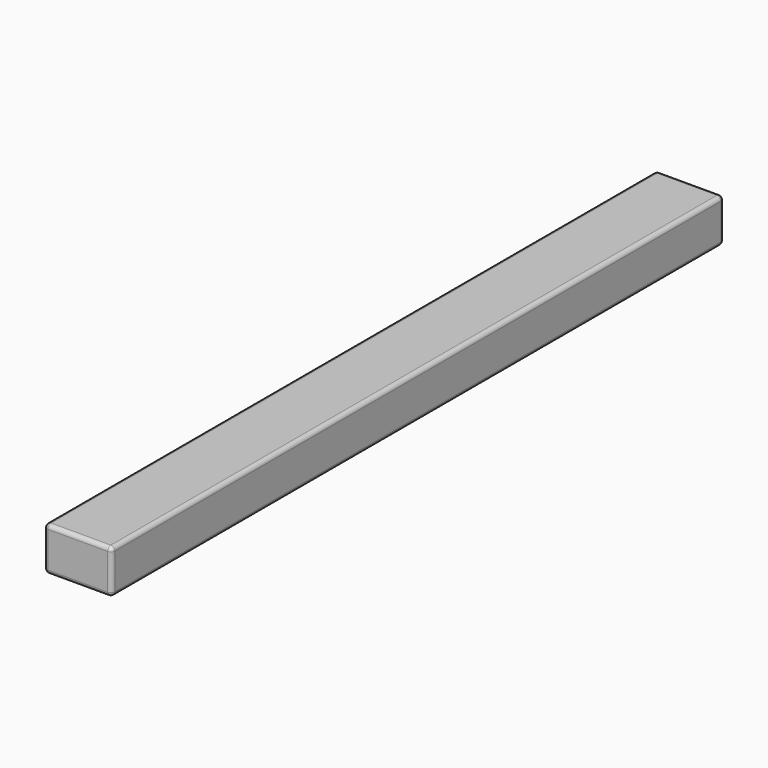
from build123d import *

# Parameters (mm, degrees)
BOX_W     = 34
BOX_H     = 385
BOX_DEPTH = 22
FILLET_R  = 2


with BuildPart() as part:
    # Box → Box (new body)
    with BuildSketch(Plane.XY):
        with Locations((17, 192.5)):
            Rectangle(BOX_W, BOX_H)
    extrude(amount=BOX_DEPTH)

    # Fillet
    fillet_edges = [part.edges().sort_by_distance(p)[0] for p in [
        (0, 0, 11),
        (0, 192.5, 22),
        (0, 385, 11),
        (0, 192.5, 0),
        (34, 0, 11),
        (34, 192.5, 22),
        (34, 385, 11),
        (34, 192.5, 0),
        (17, 0, 0),
        (17, 0, 22),
        (17, 385, 0),
        (17, 385, 22),
    ]]
    fillet(fillet_edges, radius=FILLET_R)


solid = part.part
